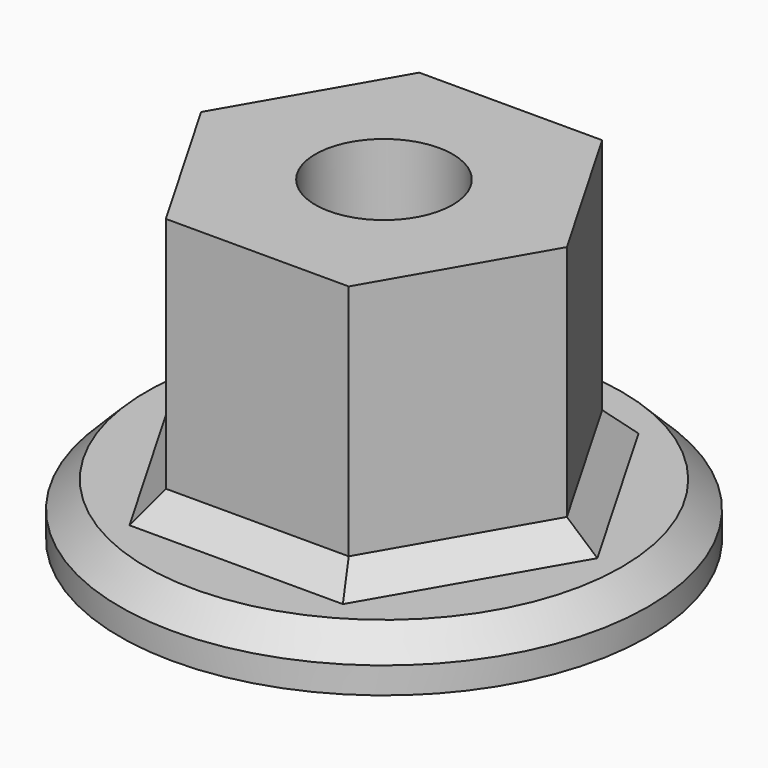
from build123d import *

# Parameters (mm, degrees)
F1_DEPTH = 12
F2_R     = 10
F2_R_2   = 4.6
F3_DEPTH = 2
F2_R_3   = 2.6
F4_DEPTH = 12.001
F5_SIZE  = 1


with BuildPart() as f1:
    # F0 (on Top) → F1 (new body)
    with BuildSketch(Plane.XY):
        Polygon((3.464102, 6), (-3.464102, 6), (-6.928203, 0), (-3.464102, -6), (3.464102, -6), (6.928203, 0), align=None)
    extrude(amount=F1_DEPTH)

    # F2 (on Top) → F3 (join)
    with BuildSketch(Plane.XY):
        Circle(F2_R)
        Circle(F2_R_2, mode=Mode.SUBTRACT)
    extrude(amount=F3_DEPTH)

    # F2 (on Top) → F4 (cut, through all)
    with BuildSketch(Plane.XY):
        Circle(F2_R_3)
    extrude(amount=F4_DEPTH, mode=Mode.SUBTRACT)

    # F5
    f5_edges = [f1.edges().sort_by_distance(p)[0] for p in [
        (-10, 0, 2),
        (0, 6, 2),
        (-5.196152, 3, 2),
        (-5.196152, -3, 2),
        (0, -6, 2),
        (5.196152, -3, 2),
        (5.196152, 3, 2),
    ]]
    chamfer(f5_edges, length=F5_SIZE)


solid = f1.part
